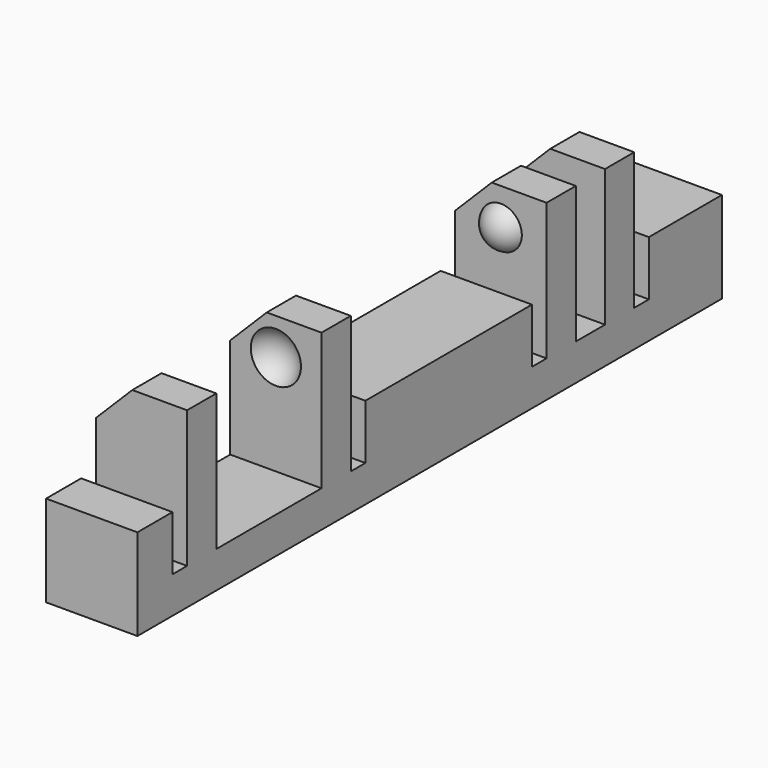
from build123d import *

# Parameters (mm, degrees)
BOX155_W               = 13
BOX155_H               = 40
BOX155_DEPTH           = 10
BOX155_PITCH_ANGLE     = -45
BOX163_W               = 12
BOX163_H               = 44
BOX163_DEPTH           = 10
BOX162_W               = 20
BOX162_H               = 44
BOX162_DEPTH           = 10
BOX158_W               = 4
BOX158_H               = 1
BOX158_DEPTH           = 7
BOX160_W               = 4
BOX160_H               = 1
BOX160_DEPTH           = 7
BOX157_W               = 4
BOX157_H               = 2
BOX157_DEPTH           = 7
BOX159_W               = 4
BOX159_H               = 1
BOX159_DEPTH           = 7
BOX156_W               = 4
BOX156_H               = 1
BOX156_DEPTH           = 7
BOX161_W               = 4
BOX161_H               = 7.2
BOX161_DEPTH           = 7
BOX151_W               = 10
BOX151_H               = 2
BOX151_DEPTH           = 7
BOX152_W               = 10
BOX152_H               = 2
BOX152_DEPTH           = 7
BOX153_W               = 10
BOX153_H               = 2
BOX153_DEPTH           = 7
BOX154_W               = 10
BOX154_H               = 2
BOX154_DEPTH           = 7
BOX150_W               = 5
BOX150_H               = 40
BOX150_DEPTH           = 7
CUT064_PITCH_ANGLE     = 90
CUT064_PLACEMENT_ANGLE = -180


with BuildPart() as chamfer_cube001:
    # Box155 → Box155 (new body)
    with BuildSketch(Plane.XY):
        with Locations((6.5, 20)):
            Rectangle(BOX155_W, BOX155_H)
    extrude(amount=BOX155_DEPTH)


with BuildPart() as chamfer_cube001_1:
    # Box155 pitch: moved
    add(chamfer_cube001.part.rotate(Axis((0, 0, 0), (0, 1, 0)), BOX155_PITCH_ANGLE))


with BuildPart() as chamfer_cube001_2:
    # Box155 placement: moved
    add(chamfer_cube001_1.part.moved(Location((-11.69, 0, -1.19))))


with BuildPart() as re_level_edge_clip_block003:
    # Box163 → Box163 (new body)
    with BuildSketch(Plane(origin=(-21.5, -2, -7), x_dir=(1, 0, 0), z_dir=(0, 0, 1))):
        with Locations((6, 22)):
            Rectangle(BOX163_W, BOX163_H)
    extrude(amount=BOX163_DEPTH)


with BuildPart() as re_level_edge_clip_block002:
    # Box162 → Box162 (new body)
    with BuildSketch(Plane(origin=(-19, -2, 3), x_dir=(1, 0, 0), z_dir=(0, 0, 1))):
        with Locations((10, 22)):
            Rectangle(BOX162_W, BOX162_H)
    extrude(amount=BOX162_DEPTH)


with BuildPart() as cube140:
    # Box158 → Box158 (new body)
    with BuildSketch(Plane(origin=(-6, 12, -2), x_dir=(1, 0, 0), z_dir=(0, 0, 1))):
        with Locations((2, 0.5)):
            Rectangle(BOX158_W, BOX158_H)
    extrude(amount=BOX158_DEPTH)


with BuildPart() as cube142:
    # Box160 → Box160 (new body)
    with BuildSketch(Plane(origin=(-6, 36.6, -2), x_dir=(1, 0, 0), z_dir=(0, 0, 1))):
        with Locations((2, 0.5)):
            Rectangle(BOX160_W, BOX160_H)
    extrude(amount=BOX160_DEPTH)


with BuildPart() as cube139:
    # Box157 → Box157 (new body)
    with BuildSketch(Plane(origin=(-6, 8, -2), x_dir=(1, 0, 0), z_dir=(0, 0, 1))):
        with Locations((2, 1)):
            Rectangle(BOX157_W, BOX157_H)
    extrude(amount=BOX157_DEPTH)


with BuildPart() as cube141:
    # Box159 → Box159 (new body)
    with BuildSketch(Plane(origin=(-6, 24.4, -2), x_dir=(1, 0, 0), z_dir=(0, 0, 1))):
        with Locations((2, 0.5)):
            Rectangle(BOX159_W, BOX159_H)
    extrude(amount=BOX159_DEPTH)


with BuildPart() as cube138:
    # Box156 → Box156 (new body)
    with BuildSketch(Plane(origin=(-6, 5, -2), x_dir=(1, 0, 0), z_dir=(0, 0, 1))):
        with Locations((2, 0.5)):
            Rectangle(BOX156_W, BOX156_H)
    extrude(amount=BOX156_DEPTH)


with BuildPart() as extra_holes_for_clips001:
    # Box161 → Box161 (new body)
    with BuildSketch(Plane(origin=(-6, 27.4, -2), x_dir=(1, 0, 0), z_dir=(0, 0, 1))):
        with Locations((2, 3.6)):
            Rectangle(BOX161_W, BOX161_H)
    extrude(amount=BOX161_DEPTH)

    # Fusion056: union Cube140, Cube142, Cube139, Cube141, Cube138
    add(cube140.part)
    add(cube142.part)
    add(cube139.part)
    add(cube141.part)
    add(cube138.part)


with BuildPart() as sphere054:
    # Sphere054 → Sphere054 (revolve)
    with BuildSketch(Plane(origin=(-7.5, 34, 0.5), x_dir=(1, 0, 0), z_dir=(0, -1, 0))):
        with BuildLine():
            ThreePointArc((0, -1.5), (1.5, 0), (0, 1.5))
            Line((0, 1.5), (0, -1.5))
        make_face()
    revolve(axis=Axis((-7.5, 34, 0.5), (0, 0, 1)))


with BuildPart() as holes001:
    # Sphere053 → Sphere053 (revolve)
    with BuildSketch(Plane(origin=(-7.5, 28, 0.5), x_dir=(1, 0, 0), z_dir=(0, -1, 0))):
        with BuildLine():
            ThreePointArc((0, -1.5), (1.5, 0), (0, 1.5))
            Line((0, 1.5), (0, -1.5))
        make_face()
    revolve(axis=Axis((-7.5, 28, 0.5), (0, 0, 1)))

    # Fusion058: union Sphere054
    add(sphere054.part)


with BuildPart() as cube134:
    # Box151 → Box151 (new body)
    with BuildSketch(Plane(origin=(-15, 6, -2), x_dir=(1, 0, 0), z_dir=(0, 0, 1))):
        with Locations((5, 1)):
            Rectangle(BOX151_W, BOX151_H)
    extrude(amount=BOX151_DEPTH)


with BuildPart() as cube135:
    # Box152 → Box152 (new body)
    with BuildSketch(Plane(origin=(-15, 10, -2), x_dir=(1, 0, 0), z_dir=(0, 0, 1))):
        with Locations((5, 1)):
            Rectangle(BOX152_W, BOX152_H)
    extrude(amount=BOX152_DEPTH)


with BuildPart() as cube136:
    # Box153 → Box153 (new body)
    with BuildSketch(Plane(origin=(-15, 25.4, -2), x_dir=(1, 0, 0), z_dir=(0, 0, 1))):
        with Locations((5, 1)):
            Rectangle(BOX153_W, BOX153_H)
    extrude(amount=BOX153_DEPTH)


with BuildPart() as cube137:
    # Box154 → Box154 (new body)
    with BuildSketch(Plane(origin=(-15, 34.6, -2), x_dir=(1, 0, 0), z_dir=(0, 0, 1))):
        with Locations((5, 1)):
            Rectangle(BOX154_W, BOX154_H)
    extrude(amount=BOX154_DEPTH)


with BuildPart() as fusion059:
    # Box150 → Box150 (new body)
    with BuildSketch(Plane(origin=(-5, 0, -2), x_dir=(1, 0, 0), z_dir=(0, 0, 1))):
        with Locations((2.5, 20)):
            Rectangle(BOX150_W, BOX150_H)
    extrude(amount=BOX150_DEPTH)

    # Fusion059: union Cube134, Cube135, Cube136, Cube137
    add(cube134.part)
    add(cube135.part)
    add(cube136.part)
    add(cube137.part)


with BuildPart() as sphere052:
    # Sphere052 → Sphere052 (revolve)
    with BuildSketch(Plane(origin=(-7.5, 11.5, 0.5), x_dir=(1, 0, 0), z_dir=(0, -1, 0))):
        with BuildLine():
            ThreePointArc((0, -1.25), (1.25, 0), (0, 1.25))
            Line((0, 1.25), (0, -1.25))
        make_face()
    revolve(axis=Axis((-7.5, 11.5, 0.5), (0, 0, 1)))


with BuildPart() as copy_edge_clip:
    # Sphere051 → Sphere051 (revolve)
    with BuildSketch(Plane(origin=(-7.5, 6.5, 0.5), x_dir=(1, 0, 0), z_dir=(0, -1, 0))):
        with BuildLine():
            ThreePointArc((0, -1.25), (1.25, 0), (0, 1.25))
            Line((0, 1.25), (0, -1.25))
        make_face()
    revolve(axis=Axis((-7.5, 6.5, 0.5), (0, 0, 1)))

    # Fusion057: union Sphere052
    add(sphere052.part)

    # Fusion060: union Fusion059
    add(fusion059.part)

    # Cut060: cut Holes001
    add(holes001.part, mode=Mode.SUBTRACT)

    # Cut061: cut Extra Holes for Clips001
    add(extra_holes_for_clips001.part, mode=Mode.SUBTRACT)

    # Cut062: cut Re-level Edge Clip Block002
    add(re_level_edge_clip_block002.part, mode=Mode.SUBTRACT)

    # Cut063: cut Re-level Edge Clip Block003
    add(re_level_edge_clip_block003.part, mode=Mode.SUBTRACT)

    # Cut064: cut Chamfer Cube001
    add(chamfer_cube001_2.part, mode=Mode.SUBTRACT)


with BuildPart() as copy_edge_clip_1:
    # Cut064 pitch: moved
    add(copy_edge_clip.part.rotate(Axis((0, 0, 0), (0, 1, 0)), CUT064_PITCH_ANGLE))


with BuildPart() as copy_edge_clip_2:
    # Cut064 placement: moved
    add(copy_edge_clip_1.part.moved(Location((-27, 20, -7))).rotate(Axis((-27, 20, -7), (0, 0, 1)), CUT064_PLACEMENT_ANGLE))


solid = copy_edge_clip_2.part
